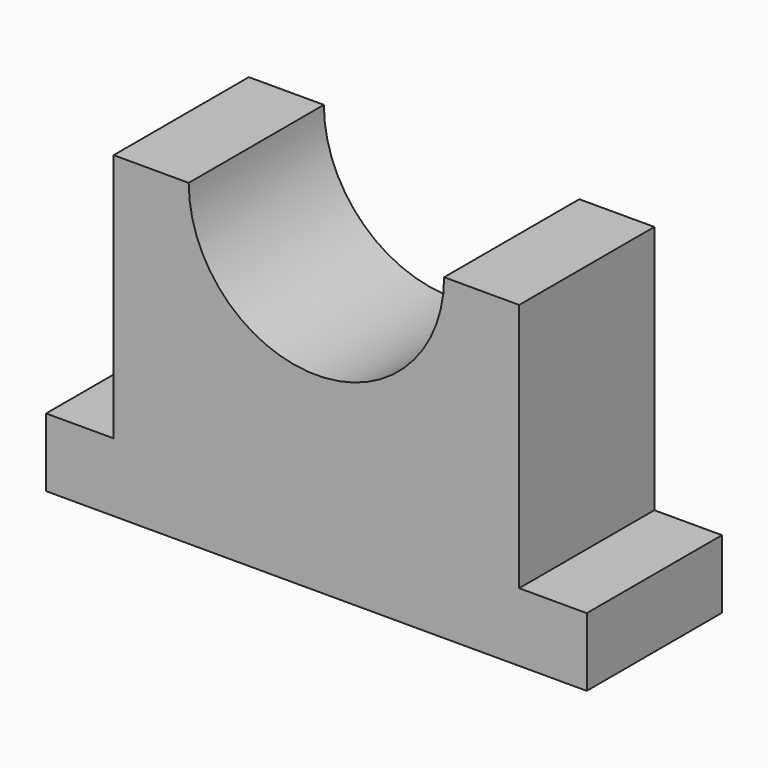
from build123d import *

# Parameters (mm, degrees)
F1_DEPTH = 25


with BuildPart() as f1:
    # F0 (on Front) → F1 (new body)
    with BuildSketch(Plane.XZ):
        with BuildLine():
            Line((-40, 0), (0, 0))
            Line((0, 0), (40, 0))
            Line((40, 0), (40, 10.122449))
            Line((40, 10.122449), (30, 10.122449))
            Line((30, 10.122449), (30, 47.020409))
            Line((30, 47.020409), (18.897959, 47.020409))
            ThreePointArc((18.897959, 47.020409), (0, 28.12245), (-18.897959, 47.020409))
            Line((-18.897959, 47.020409), (-30, 47.020409))
            Line((-30, 47.020409), (-30, 10.122449))
            Line((-30, 10.122449), (-40, 10.122449))
            Line((-40, 10.122449), (-40, 0))
        make_face()
    extrude(amount=F1_DEPTH)


solid = f1.part
